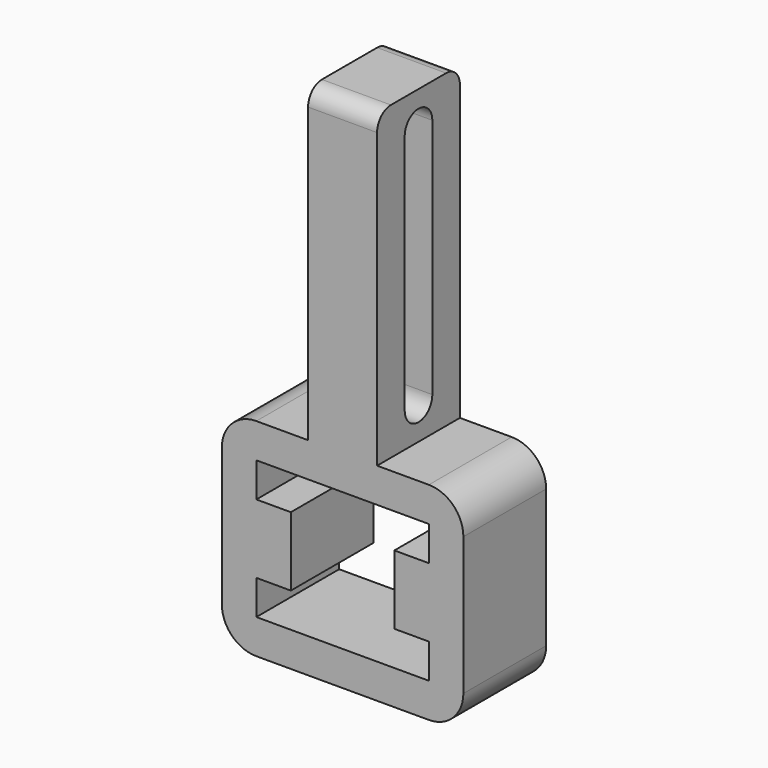
from build123d import *

# Parameters (mm, degrees)
F1_DEPTH      = 30
F3_DEPTH      = 25
F3_DEPTH_BACK = 40
F5_W          = 20
F5_H          = 30
F6_DEPTH      = 90
F7_R          = 5
F9_DEPTH      = 25
F9_DEPTH_BACK = 40


with BuildPart() as f1:
    # F0 (on Front) → F1 (new body)
    with BuildSketch(Plane.XZ):
        with BuildLine():
            Line((10, -45), (-10, -45))
            Line((-10, -45), (-25, -45))
            ThreePointArc((-25, -45), (-32.071068, -47.928932), (-35, -55))
            Line((-35, -55), (-35, -95))
            ThreePointArc((-35, -95), (-32.071068, -102.071068), (-25, -105))
            Line((-25, -105), (25, -105))
            ThreePointArc((25, -105), (32.071068, -102.071068), (35, -95))
            Line((35, -95), (35, -55))
            ThreePointArc((35, -55), (32.071068, -47.928932), (25, -45))
            Line((25, -45), (10, -45))
        make_face()
    extrude(amount=F1_DEPTH)


with BuildPart() as f3:
    # F2 (on face) → F3 (new body, two sides)
    with BuildSketch(Plane.XZ.offset(30)) as f3_sk:
        Polygon((25, -55), (-25, -55), (-25, -65), (-15, -65), (-15, -85), (-25, -85), (-25, -95), (25, -95), (25, -85), (15, -85), (15, -65), (25, -65), align=None)
    extrude(amount=F3_DEPTH)
    extrude(f3_sk.sketch, amount=-F3_DEPTH_BACK)


with BuildPart() as f1_1:
    add(f1.part)

    # F4: cut F3
    add(f3.part, mode=Mode.SUBTRACT)

    # F5 (on face) → F6 (join)
    with BuildSketch(Plane.XY.offset(-45)):
        with Locations((0, -15)):
            Rectangle(F5_W, F5_H)
    extrude(amount=F6_DEPTH)

    # F7
    f7_edges = [f1_1.edges().sort_by_distance(p)[0] for p in [
        (0, -30, 45),
        (0, 0, 45),
    ]]
    fillet(f7_edges, radius=F7_R)


with BuildPart() as f9:
    # F8 (on face) → F9 (new body, two sides)
    with BuildSketch(Plane.YZ.offset(10)) as f9_sk:
        with BuildLine():
            Line((-10, -35), (-10, 35))
            ThreePointArc((-10, 35), (-15, 40), (-20, 35))
            Line((-20, 35), (-20, -35))
            ThreePointArc((-20, -35), (-15, -40), (-10, -35))
        make_face()
    extrude(amount=F9_DEPTH)
    extrude(f9_sk.sketch, amount=-F9_DEPTH_BACK)


with BuildPart() as f1_2:
    add(f1_1.part)

    # F10: cut F9
    add(f9.part, mode=Mode.SUBTRACT)


solid = f1_2.part
